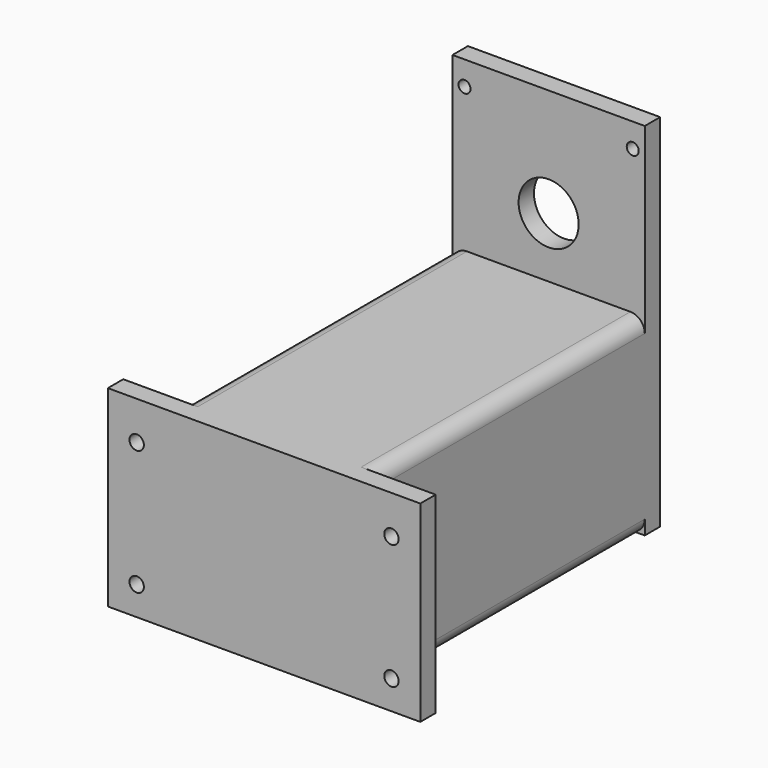
from build123d import *

# Parameters (mm, degrees)
F1_DEPTH = 140
F3_W     = 130
F3_H     = 80
F3_R     = 3
F4_DEPTH = 8
F6_W     = 80
F6_H     = 150
F6_R     = 2.5
F6_R_2   = 12.5
F7_DEPTH = 8


with BuildPart() as f1:
    # F0 (on Front) → F1 (new body)
    with BuildSketch(Plane.XZ):
        with BuildLine():
            ThreePointArc((40, 34), (38.2426406871, 38.2426406871), (34, 40))
            Line((34, 40), (-34, 40))
            ThreePointArc((-34, 40), (-38.2426406871, 38.2426406871), (-40, 34))
            Line((-40, 34), (-40, -34))
            ThreePointArc((-40, -34), (-38.2426406871, -38.2426406871), (-34, -40))
            Line((-34, -40), (34, -40))
            ThreePointArc((34, -40), (38.2426406871, -38.2426406871), (40, -34))
            Line((40, -34), (40, 34))
        make_face()
        with BuildLine():
            ThreePointArc((-36, 34), (-35.4142135624, 35.4142135624), (-34, 36))
            Line((-34, 36), (34, 36))
            ThreePointArc((34, 36), (35.4142135624, 35.4142135624), (36, 34))
            Line((36, 34), (36, -34))
            ThreePointArc((36, -34), (35.4142135624, -35.4142135624), (34, -36))
            Line((34, -36), (-34, -36))
            ThreePointArc((-34, -36), (-35.4142135624, -35.4142135624), (-36, -34))
            Line((-36, -34), (-36, 34))
        make_face(mode=Mode.SUBTRACT)
    extrude(amount=-F1_DEPTH)

    # F3 (on offset) → F4 (join)
    with BuildSketch(Plane.XZ.offset(8)):
        Rectangle(F3_W, F3_H)
        with Locations((-53, -28)):
            Circle(F3_R, mode=Mode.SUBTRACT)
        with Locations((53, -28)):
            Circle(F3_R, mode=Mode.SUBTRACT)
        with Locations((-53, 24)):
            Circle(F3_R, mode=Mode.SUBTRACT)
        with Locations((53, 24)):
            Circle(F3_R, mode=Mode.SUBTRACT)
    extrude(amount=-F4_DEPTH)

    # F6 (on offset) → F7 (join)
    with BuildSketch(Plane(origin=(0, 148, 0), x_dir=(-1, 0, 0), z_dir=(0, 1, 0))):
        with Locations((0, 35)):
            Rectangle(F6_W, F6_H)
        with Locations((-35, 30)):
            Circle(F6_R, mode=Mode.SUBTRACT)
        with Locations((35, 30)):
            Circle(F6_R, mode=Mode.SUBTRACT)
        with Locations((-35, 100)):
            Circle(F6_R, mode=Mode.SUBTRACT)
        with Locations((0, 65)):
            Circle(F6_R_2, mode=Mode.SUBTRACT)
        with Locations((35, 100)):
            Circle(F6_R, mode=Mode.SUBTRACT)
    extrude(amount=-F7_DEPTH)


solid = f1.part
